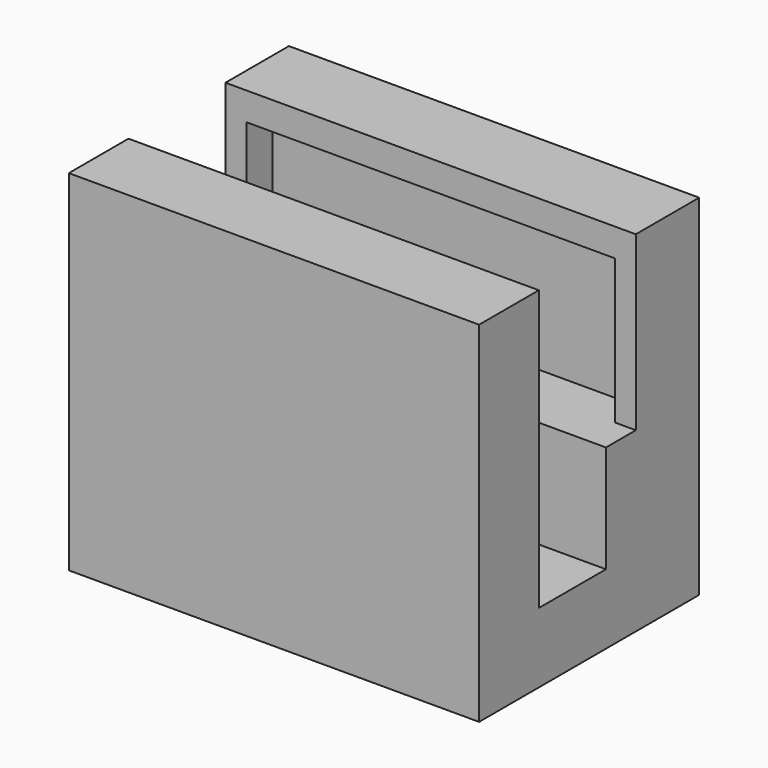
from build123d import *

# Parameters (mm, degrees)
BOX_W                = 7.5
BOX_H                = 8.8
BOX_DEPTH            = 5.9
BOX001_W             = 10
BOX001_H             = 10
BOX001_DEPTH         = 1.8
BOX002_W             = 3.1
BOX002_H             = 7.9
BOX002_DEPTH         = 3.3
BOX003_W             = 2.3
BOX003_H             = 1.4
BOX003_DEPTH         = 1.5
BOX004_W             = 10
BOX004_H             = 10
BOX004_DEPTH         = 2.6
BODY_PITCH_ANGLE     = -90
BODY_PLACEMENT_ANGLE = -90


with BuildPart() as part:
    # Box → Box (join)
    with BuildSketch(Plane.XY.offset(-0.6)):
        with Locations((3.75, 4.4)):
            Rectangle(BOX_W, BOX_H)
    extrude(amount=BOX_DEPTH)

    # Box001 → Box001 (cut)
    with BuildSketch(Plane(origin=(1.5, 0, 1), x_dir=(1, 0, 0), z_dir=(0, 0, 1))):
        with Locations((5, 5)):
            Rectangle(BOX001_W, BOX001_H)
    extrude(amount=BOX001_DEPTH, mode=Mode.SUBTRACT)

    # Box002 → Box002 (cut)
    with BuildSketch(Plane(origin=(3.8, 0.45, 1), x_dir=(1, 0, 0), z_dir=(0, 0, 1))):
        with Locations((1.55, 3.95)):
            Rectangle(BOX002_W, BOX002_H)
    extrude(amount=BOX002_DEPTH, mode=Mode.SUBTRACT)

    # Box003 → Box003 (cut)
    with BuildSketch(Plane(origin=(1.5, 3.7, 2.8), x_dir=(1, 0, 0), z_dir=(0, 0, 1))):
        with Locations((1.15, 0.7)):
            Rectangle(BOX003_W, BOX003_H)
    extrude(amount=BOX003_DEPTH, mode=Mode.SUBTRACT)

    # Box004 → Box004 (cut)
    with BuildSketch(Plane(origin=(3.8, 0, 1), x_dir=(1, 0, 0), z_dir=(0, 0, 1))):
        with Locations((5, 5)):
            Rectangle(BOX004_W, BOX004_H)
    extrude(amount=BOX004_DEPTH, mode=Mode.SUBTRACT)


with BuildPart() as part_1:
    # Body pitch: moved
    add(part.part.rotate(Axis((0, 0, 0), (0, 1, 0)), BODY_PITCH_ANGLE))


with BuildPart() as part_2:
    # Body placement: moved
    add(part_1.part.rotate(Axis((0, 0, 0), (0, 0, 1)), BODY_PLACEMENT_ANGLE))


solid = part_2.part
